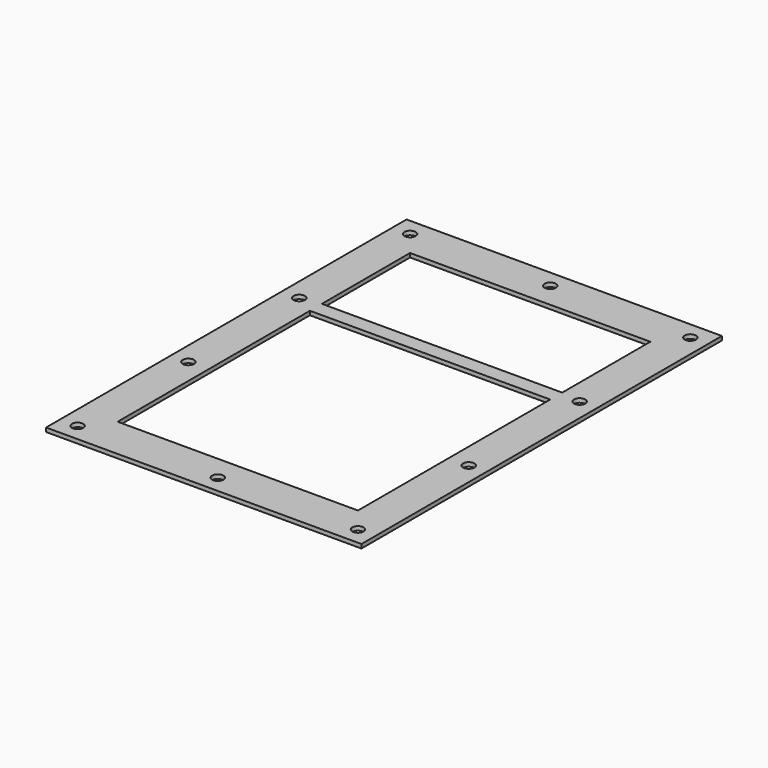
from build123d import *

# Parameters (mm, degrees)
F0_W     = 63
F0_H     = 90
F1_DEPTH = 0.8
F3_R     = 1.1303
F4_DEPTH = 25
F5_W     = 48
F5_H     = 22
F5_H_2   = 48
F6_DEPTH = 25


with BuildPart() as f1:
    # F0 (on Top) → F1 (new body)
    with BuildSketch(Plane.XY):
        Rectangle(F0_W, F0_H)
    extrude(amount=F1_DEPTH)

    # F3 (on face) → F4 (cut)
    with BuildSketch(Plane.XY.offset(0.8)):
        with Locations((-28, 41.5)):
            Circle(F3_R)
        with Locations((-28, -41.5)):
            Circle(F3_R)
        with Locations((28, -41.5)):
            Circle(F3_R)
        with Locations((28, 41.5)):
            Circle(F3_R)
        with Locations((0, 41.5)):
            Circle(F3_R)
        with Locations((0, -41.5)):
            Circle(F3_R)
        with Locations((-28, 13.833333)):
            Circle(F3_R)
        with Locations((-28, -13.833333)):
            Circle(F3_R)
        with Locations((28, 13.833333)):
            Circle(F3_R)
        with Locations((28, -13.833333)):
            Circle(F3_R)
    extrude(amount=-F4_DEPTH, mode=Mode.SUBTRACT)

    # F5 (on face) → F6 (cut)
    with BuildSketch(Plane.XY.offset(0.8)):
        with Locations((0, 25.5)):
            Rectangle(F5_W, F5_H)
        with Locations((0, -12.5)):
            Rectangle(F5_W, F5_H_2)
    extrude(amount=-F6_DEPTH, mode=Mode.SUBTRACT)


solid = f1.part
